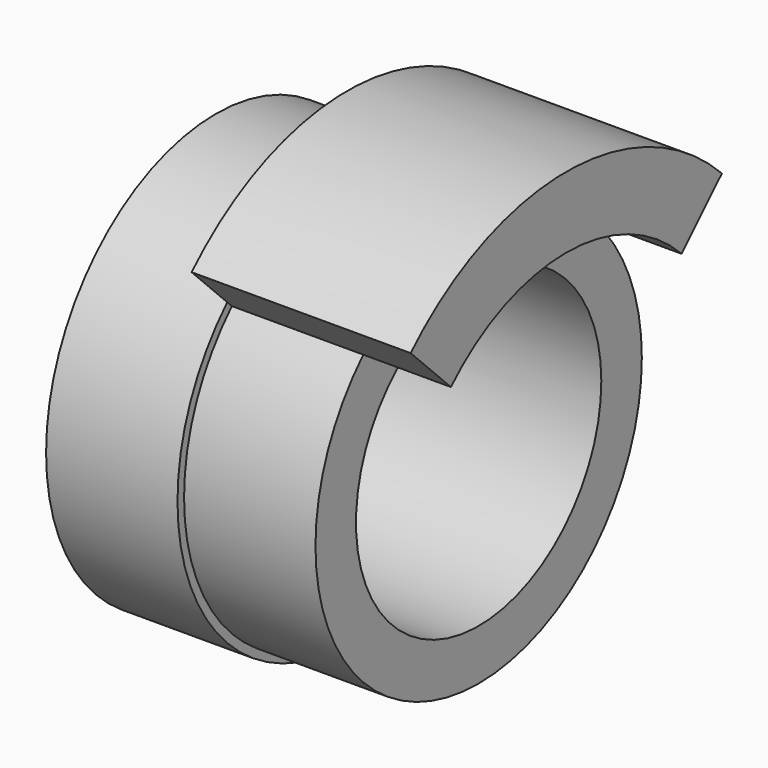
from build123d import *

# Parameters (mm, degrees)
F0_R     = 38.75
F0_R_2   = 28
F1_DEPTH = 48
F5_DEPTH = 40


with BuildPart() as f1:
    # F0 (on Right) → F1 (new body)
    with BuildSketch(Plane.YZ):
        Circle(F0_R)
        Circle(F0_R_2, mode=Mode.SUBTRACT)
    extrude(amount=F1_DEPTH)

    # F2 (on Front) → F3 (revolve)
    with BuildSketch(Plane.XZ):
        Polygon((24, 50.25), (24, 38.75), (48, 38.75), (48, 37.25), (64, 37.25), (64, 50.25), align=None)
    revolve(axis=Axis((48, 0, 0), (1, 0, 0)))

    # F4 (on face) → F5 (cut)
    with BuildSketch(Plane.YZ.offset(64)):
        with BuildLine():
            ThreePointArc((37.25, 0), (-14.2549578556, -34.414512586), (-26.3397275992, 26.3397275992))
            Line((-26.3397275992, 26.3397275992), (-35.5321157546, 35.5321157546))
            ThreePointArc((-35.5321157546, 35.5321157546), (-19.2298424763, -46.4249465087), (50.25, 0))
            ThreePointArc((50.25, 0), (46.4249465087, 19.2298424763), (35.5321157546, 35.5321157546))
            Line((35.5321157546, 35.5321157546), (26.3397275992, 26.3397275992))
            ThreePointArc((26.3397275992, 26.3397275992), (34.414512586, 14.2549578556), (37.25, 0))
        make_face()
    extrude(amount=-F5_DEPTH, mode=Mode.SUBTRACT)


solid = f1.part
